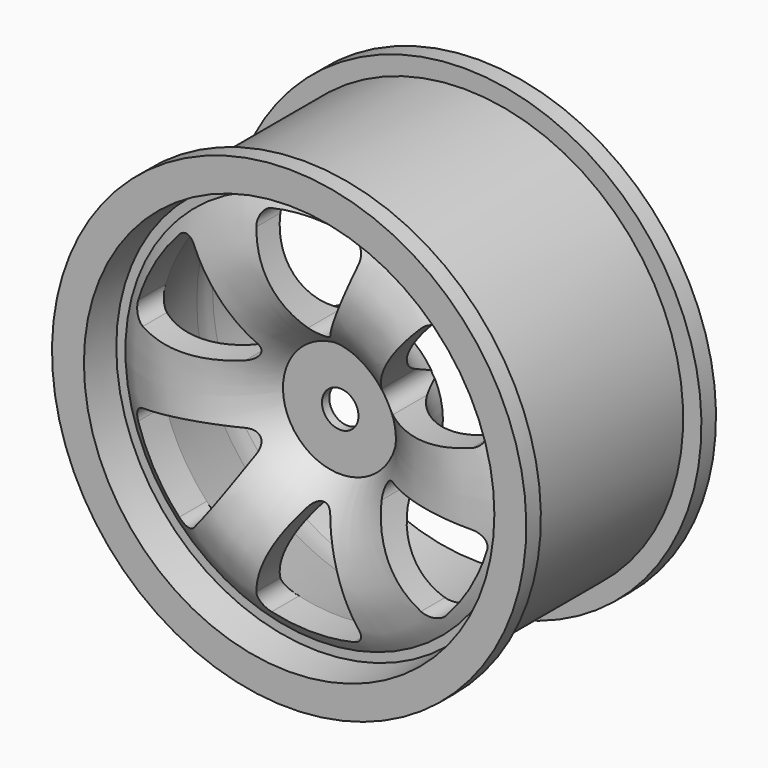
from build123d import *

# Parameters (mm, degrees)
F3_DEPTH = 25
F5_DEPTH = 3


with BuildPart() as f1:
    # F0 (on Right) → F1 (revolve)
    with BuildSketch(Plane.YZ):
        with BuildLine():
            Line((-11, 26), (-13, 26))
            Line((-13, 26), (-13, 22.5))
            Line((-13, 22.5), (-9, 22.150045))
            Line((-9, 22.150045), (-9, 21.150045))
            ThreePointArc((-9, 21.150045), (-10.917404, 13.02307), (-6, 6.274493))
            Line((-6, 6.274493), (-6, 2))
            Line((-6, 2), (-2, 2))
            Line((-2, 2), (-2, 8.0562))
            ThreePointArc((-2, 8.0562), (-7.750115, 12.770174), (-6.013744, 20))
            Line((-6.013744, 20), (2.044718, 22.159258))
            ThreePointArc((2.044718, 22.159258), (3.327646, 22.414449), (4.632908, 22.5))
            Line((4.632908, 22.5), (13, 22.5))
            Line((13, 22.5), (13, 26))
            Line((13, 26), (11, 26))
            Line((11, 26), (11, 24))
            Line((11, 24), (-11, 24))
            Line((-11, 24), (-11, 26))
        make_face()
    revolve(axis=Axis((0, 1.187235, 0), (0, 1, 0)))

    # F2 (on face) → F3 (cut)
    with BuildSketch(Plane.XZ.offset(13)):
        with BuildLine():
            ThreePointArc((5.603869, 17.600009), (5.460886, 18.780982), (4.503059, 19.486469))
            ThreePointArc((4.503059, 19.486469), (0, 20), (-4.503059, 19.486469))
            ThreePointArc((-4.503059, 19.486469), (-5.460886, 18.780982), (-5.603869, 17.600009))
            ThreePointArc((-5.603869, 17.600009), (-3.787651, 12.929431), (-1.219312, 8.626342))
            ThreePointArc((-1.219312, 8.626342), (0, 8), (1.219312, 8.626342))
            ThreePointArc((1.219312, 8.626342), (3.787651, 12.929431), (5.603869, 17.600009))
        make_face()
        with BuildLine():
            ThreePointArc((-12.44012, 13.653097), (-13.534365, 14.119757), (-14.624247, 13.642998))
            ThreePointArc((-14.624247, 13.642998), (-17.320508, 10), (-19.127306, 5.843471))
            ThreePointArc((-19.127306, 5.843471), (-18.995251, 4.661225), (-18.043989, 3.946911))
            ThreePointArc((-18.043989, 3.946911), (-13.091041, 3.184514), (-8.080287, 3.257216))
            ThreePointArc((-8.080287, 3.257216), (-6.928203, 4), (-6.860975, 5.369126))
            ThreePointArc((-6.860975, 5.369126), (-9.30339, 9.744917), (-12.44012, 13.653097))
        make_face()
        with BuildLine():
            ThreePointArc((-18.043989, -3.946911), (-18.995251, -4.661225), (-19.127306, -5.843471))
            ThreePointArc((-19.127306, -5.843471), (-17.320508, -10), (-14.624247, -13.642998))
            ThreePointArc((-14.624247, -13.642998), (-13.534365, -14.119757), (-12.44012, -13.653097))
            ThreePointArc((-12.44012, -13.653097), (-9.30339, -9.744917), (-6.860975, -5.369126))
            ThreePointArc((-6.860975, -5.369126), (-6.928203, -4), (-8.080287, -3.257216))
            ThreePointArc((-8.080287, -3.257216), (-13.091041, -3.184514), (-18.043989, -3.946911))
        make_face()
        with BuildLine():
            ThreePointArc((-5.603869, -17.600009), (-5.460886, -18.780982), (-4.503059, -19.486469))
            ThreePointArc((-4.503059, -19.486469), (0, -20), (4.503059, -19.486469))
            ThreePointArc((4.503059, -19.486469), (5.460886, -18.780982), (5.603869, -17.600009))
            ThreePointArc((5.603869, -17.600009), (3.787651, -12.929431), (1.219312, -8.626342))
            ThreePointArc((1.219312, -8.626342), (0, -8), (-1.219312, -8.626342))
            ThreePointArc((-1.219312, -8.626342), (-3.787651, -12.929431), (-5.603869, -17.600009))
        make_face()
        with BuildLine():
            ThreePointArc((12.44012, -13.653097), (13.534365, -14.119757), (14.624247, -13.642998))
            ThreePointArc((14.624247, -13.642998), (17.320508, -10), (19.127306, -5.843471))
            ThreePointArc((19.127306, -5.843471), (18.995251, -4.661225), (18.043989, -3.946911))
            ThreePointArc((18.043989, -3.946911), (13.091041, -3.184514), (8.080287, -3.257216))
            ThreePointArc((8.080287, -3.257216), (6.928203, -4), (6.860975, -5.369126))
            ThreePointArc((6.860975, -5.369126), (9.30339, -9.744917), (12.44012, -13.653097))
        make_face()
        with BuildLine():
            ThreePointArc((18.043989, 3.946911), (18.995251, 4.661225), (19.127306, 5.843471))
            ThreePointArc((19.127306, 5.843471), (17.320508, 10), (14.624247, 13.642998))
            ThreePointArc((14.624247, 13.642998), (13.534365, 14.119757), (12.44012, 13.653097))
            ThreePointArc((12.44012, 13.653097), (9.30339, 9.744917), (6.860975, 5.369126))
            ThreePointArc((6.860975, 5.369126), (6.928203, 4), (8.080287, 3.257216))
            ThreePointArc((8.080287, 3.257216), (13.091041, 3.184514), (18.043989, 3.946911))
        make_face()
    extrude(amount=-F3_DEPTH, mode=Mode.SUBTRACT)

    # F4 (on face) → F5 (cut)
    with BuildSketch(Plane(origin=(0, -2, 0), x_dir=(-1, 0, 0), z_dir=(0, 1, 0))):
        Polygon((3.464102, 6), (-3.464102, 6), (-6.928203, 0), (-3.464102, -6), (3.464102, -6), (6.928203, 0), align=None)
    extrude(amount=-F5_DEPTH, mode=Mode.SUBTRACT)


solid = f1.part
